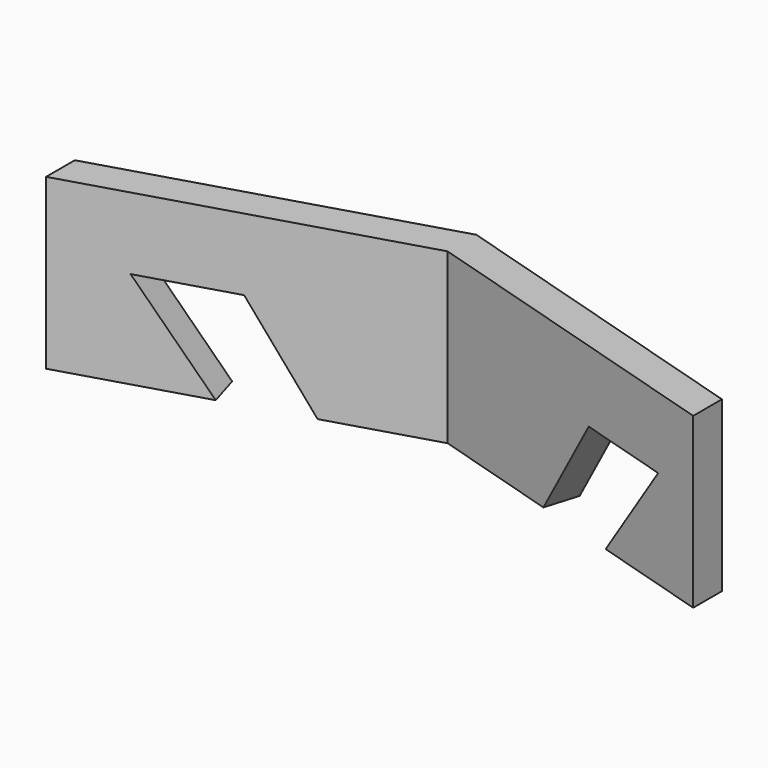
from build123d import *

# Parameters (mm, degrees)
F1_DEPTH = 25.4
F3_DEPTH = 33.2294348111
F5_DEPTH = 19.1997730291
F7_DEPTH = 33.2294348111


with BuildPart() as f1:
    # F0 (on Top) → F1 (new body)
    with BuildSketch(Plane.XY):
        Polygon((-48.6410071966, 22.7927347302), (0, 37.4451208464), (0, 42.8436696529), (-48.6410071966, 28.1912835367), align=None)
        Polygon((0, 42.8436696529), (0, 37.4451208464), (48.6410071966, 22.7927347302), (48.6410071966, 28.1912835367), align=None)
    extrude(amount=F1_DEPTH)

    # F2 (on face) → F3 (cut, through all)
    with BuildSketch(Plane(origin=(-11.8323266679, 39.2793557338, 0), x_dir=(-0.9575001417, -0.2884327976, 0), z_dir=(-0.2884327976, 0.9575001417, 0))):
        Polygon((5.6493859738, 0), (18.5344964266, 0), (29.307289049, 14.6010806784), (14.9435615167, 14.6010806784), align=None)
    extrude(amount=-F3_DEPTH, mode=Mode.SUBTRACT)

    # F4 (on face) → F5 (cut, through all)
    with BuildSketch(Plane(origin=(10.34138545, 34.3299309825, 0), x_dir=(0.9575001417, -0.2884327976, 0), z_dir=(-0.2884327976, -0.9575001417, 0))):
        Polygon((9.0973575134, 0.1226081513), (21.9824679662, 0.1226081513), (32.7552605886, 14.7236888297), (18.3915330563, 14.7236888297), align=None)
    extrude(amount=-F5_DEPTH, mode=Mode.SUBTRACT)

    # F6 (on face) → F7 (cut, through all)
    with BuildSketch(Plane(origin=(11.8323266679, 39.2793557338, 0), x_dir=(-0.9575001417, 0.2884327976, 0), z_dir=(0.2884327976, 0.9575001417, 0))):
        Polygon((-12.5681698828, 5.5752285791), (-25.2396277855, 4.5372529859), (-17.4372941709, -6.037767492), (-5.5907663486, -5.3862204982), align=None)
    extrude(amount=-F7_DEPTH, mode=Mode.SUBTRACT)


solid = f1.part
